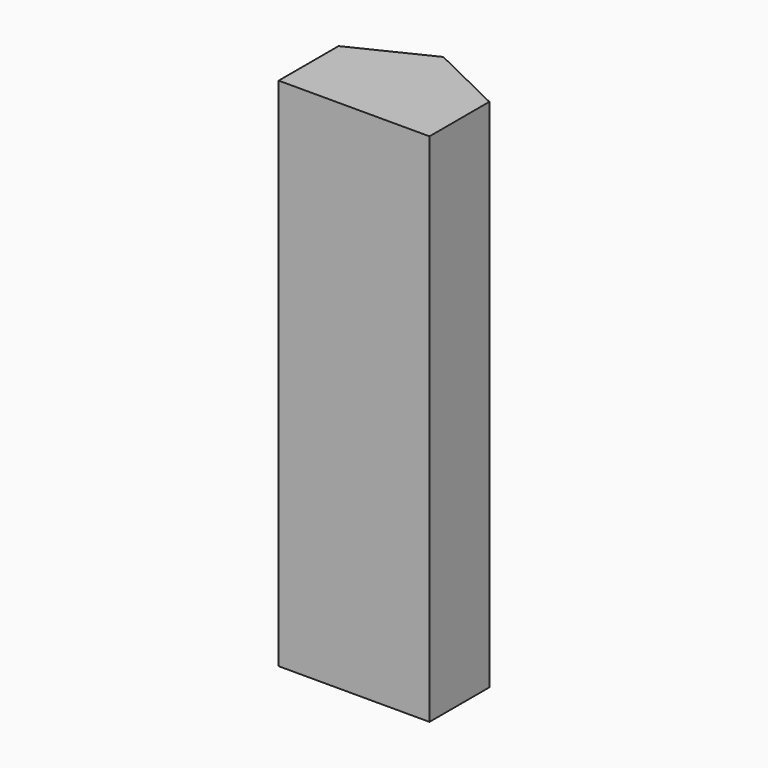
from build123d import *

# Parameters (mm, degrees)
F0_W     = 148.61682
F0_H     = 73.707506
F1_DEPTH = 508


with BuildPart() as f1:
    # F0 (on Top) → F1 (new body)
    with BuildSketch(Plane.XY):
        Polygon((0, 73.106647), (-74.30841, 36.853753), (74.30841, 36.853753), align=None)
        Rectangle(F0_W, F0_H)
    extrude(amount=F1_DEPTH)


solid = f1.part
